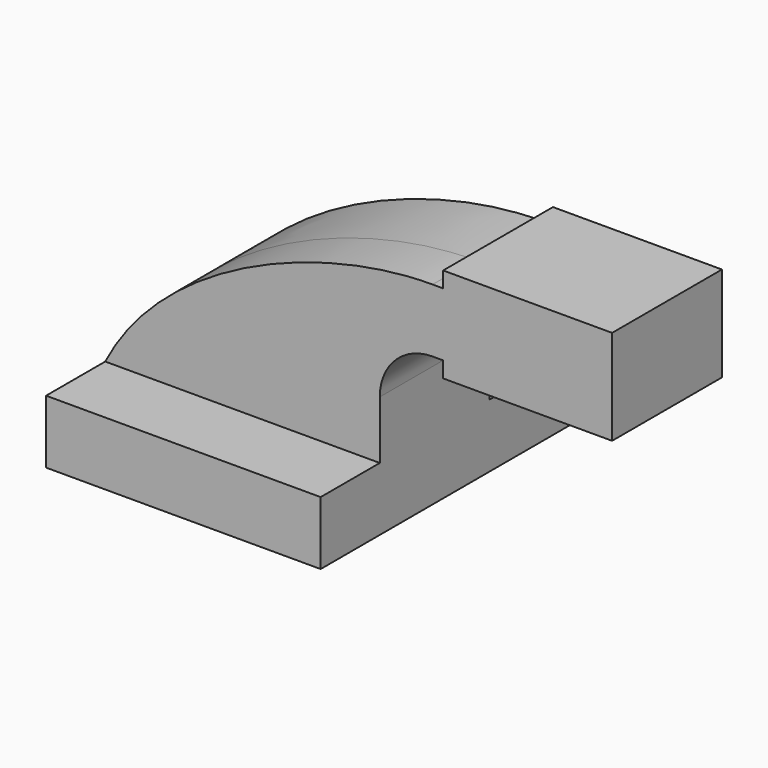
from build123d import *

# Parameters (mm, degrees)
F1_DEPTH = 63.5
F0_W     = 25.4
F0_H     = 19.05
F0_H_2   = 4.7498
F0_H_3   = 4.7752
F2_DEPTH = 25.4
F3_DEPTH = 15.875


with BuildPart() as f1:
    # F0 (on Front) → F1 (new body, symmetric)
    with BuildSketch(Plane.XZ):
        Polygon((-41.275, -9.525), (41.275, -9.525), (41.275, 9.525), (22.225, 9.525), (-41.275, 9.525), align=None)
    extrude(amount=F1_DEPTH, both=True)

    # F0 (on Front) → F2 (join)
    with BuildSketch(Plane.XZ):
        Polygon((-41.275, -9.525), (41.275, -9.525), (41.275, 9.525), (22.225, 9.525), (-41.275, 9.525), align=None)
        with BuildLine():
            Line((22.225, 9.525), (41.275, 9.525))
            Line((41.275, 9.525), (41.275, 27.0002))
            ThreePointArc((41.275, 27.0002), (45.9246798487, 38.2255201513), (57.15, 42.8752))
            Line((57.15, 42.8752), (60.325, 42.8752))
            Line((60.325, 42.8752), (60.325, 61.9252))
            Line((60.325, 61.9252), (57.15, 61.9252))
            ThreePointArc((57.15, 61.9252), (32.4542956671, 51.6959043329), (22.225, 27.0002))
            Line((22.225, 27.0002), (22.225, 9.525))
        make_face()
        with BuildLine():
            add(Edge.make_bspline(
                [(-41.275, 9.525), (-23.4616156667, 44.3730577827), (24.9917246401, 62.0542801917), (57.15, 61.9252)],
                knots=[0, 0, 0, 0, 111.5045361635, 111.5045361635, 111.5045361635, 111.5045361635], degree=3))
            Line((-41.275, 9.525), (22.225, 9.525))
            Line((22.225, 9.525), (22.225, 27.0002))
            ThreePointArc((22.225, 27.0002), (32.4542956671, 51.6959043329), (57.15, 61.9252))
        make_face()
        with Locations((73.025, 52.4002)):
            Rectangle(F0_W, F0_H)
        with Locations((73.025, 64.3001)):
            Rectangle(F0_W, F0_H_2)
        with Locations((73.025, 40.4876)):
            Rectangle(F0_W, F0_H_3)
        Polygon((85.725, 66.675), (85.725, 61.9252), (85.725, 42.8752), (85.725, 38.1), (111.125, 38.1), (111.125, 66.675), align=None)
    extrude(amount=F2_DEPTH)

    # F0 (on Front) + F2_face (on face) → F3 (join)
    with BuildSketch(Plane.XZ):
        Polygon((-41.275, -9.525), (41.275, -9.525), (41.275, 9.525), (22.225, 9.525), (-41.275, 9.525), align=None)
        with BuildLine():
            Line((22.225, 9.525), (41.275, 9.525))
            Line((41.275, 9.525), (41.275, 27.0002))
            ThreePointArc((41.275, 27.0002), (45.9246798487, 38.2255201513), (57.15, 42.8752))
            Line((57.15, 42.8752), (60.325, 42.8752))
            Line((60.325, 42.8752), (60.325, 61.9252))
            Line((60.325, 61.9252), (57.15, 61.9252))
            ThreePointArc((57.15, 61.9252), (32.4542956671, 51.6959043329), (22.225, 27.0002))
            Line((22.225, 27.0002), (22.225, 9.525))
        make_face()
        with BuildLine():
            add(Edge.make_bspline(
                [(-41.275, 9.525), (-23.4616156667, 44.3730577827), (24.9917246401, 62.0542801917), (57.15, 61.9252)],
                knots=[0, 0, 0, 0, 111.5045361635, 111.5045361635, 111.5045361635, 111.5045361635], degree=3))
            Line((-41.275, 9.525), (22.225, 9.525))
            Line((22.225, 9.525), (22.225, 27.0002))
            ThreePointArc((22.225, 27.0002), (32.4542956671, 51.6959043329), (57.15, 61.9252))
        make_face()
        with Locations((73.025, 52.4002)):
            Rectangle(F0_W, F0_H)
        with Locations((73.025, 64.3001)):
            Rectangle(F0_W, F0_H_2)
        with Locations((73.025, 40.4876)):
            Rectangle(F0_W, F0_H_3)
        Polygon((85.725, 66.675), (85.725, 61.9252), (85.725, 42.8752), (85.725, 38.1), (111.125, 38.1), (111.125, 66.675), align=None)
    with BuildSketch(Plane(origin=(36.4198277408, -25.4, 38.4190839989), x_dir=(1, 0, 0), z_dir=(0, -1, 0))):
        with BuildLine():
            add(Edge.make_bspline(
                [(-77.6948277408, -28.8940839989), (-59.8814434075, 5.9539737837), (-11.4281031006, 23.6351961927), (20.7301722592, 23.5061160011)],
                knots=[0, 0, 0, 0, 111.5045361635, 111.5045361635, 111.5045361635, 111.5045361635], degree=3))
            Line((-77.6948277408, -28.8940839989), (4.8551722592, -28.8940839989))
            Line((4.8551722592, -28.8940839989), (4.8551722592, -11.4188839989))
            ThreePointArc((4.8551722592, -11.4188839989), (9.5048521079, -0.1935638476), (20.7301722592, 4.4561160011))
            Line((20.7301722592, 4.4561160011), (23.9051722592, 4.4561160011))
            Line((23.9051722592, 4.4561160011), (23.9051722592, -0.3190839989))
            Line((23.9051722592, -0.3190839989), (74.7051722592, -0.3190839989))
            Line((74.7051722592, -0.3190839989), (74.7051722592, 28.2559160011))
            Line((74.7051722592, 28.2559160011), (23.9051722592, 28.2559160011))
            Line((23.9051722592, 28.2559160011), (23.9051722592, 23.5061160011))
            Line((23.9051722592, 23.5061160011), (20.7301722592, 23.5061160011))
        make_face()
    extrude(amount=F3_DEPTH)


solid = f1.part
